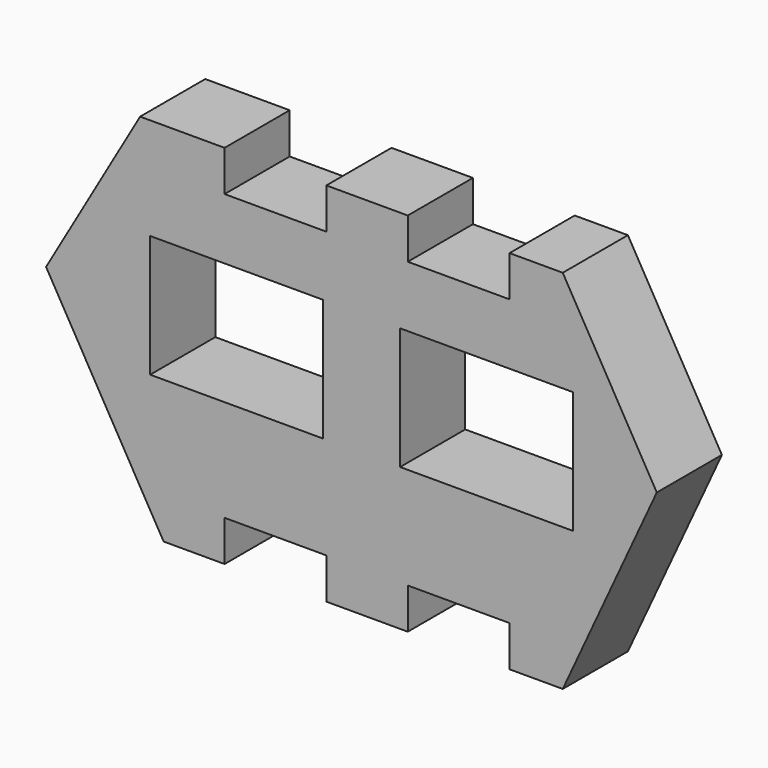
from build123d import *

# Parameters (mm, degrees)
F0_W     = 53.975
F0_H     = 38.1
F1_DEPTH = 25.4


with BuildPart() as f1:
    # F0 (on Front) → F1 (new body)
    with BuildSketch(Plane.XZ):
        Polygon((-42.21458, 50.8), (-68.562925, 50.8), (-97.892319, 0), (-61.230577, -63.5), (-42.21458, -63.5), (-42.21458, -50.8), (-10.46458, -50.8), (-10.46458, -63.5), (14.93542, -63.5), (14.93542, -50.8), (46.68542, -50.8), (46.68542, -63.5), (63.278288, -63.5), (92.607681, 0), (63.278288, 50.8), (46.68542, 50.8), (46.68542, 38.1), (14.93542, 38.1), (14.93542, 50.8), (-10.46458, 50.8), (-10.46458, 38.1), (-42.21458, 38.1), align=None)
        with Locations((-38.437695, 0)):
            Rectangle(F0_W, F0_H, mode=Mode.SUBTRACT)
        with Locations((39.525519, 0)):
            Rectangle(F0_W, F0_H, mode=Mode.SUBTRACT)
    extrude(amount=F1_DEPTH)


solid = f1.part
